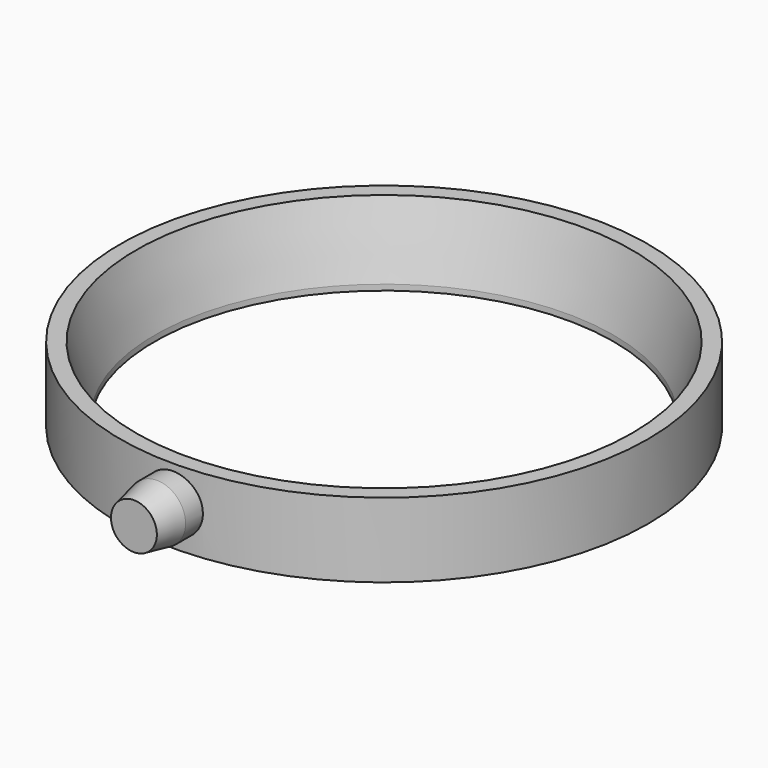
from build123d import *

# Parameters (mm, degrees)
F0_R     = 46
F0_R_2   = 40
F1_DEPTH = 13
F3_R     = 5
F4_DEPTH = 10
F5_SIZE2 = 3.2153903092
F5_SIZE  = 12
F6_SIZE2 = 5
F6_SIZE  = 1


with BuildPart() as f1:
    # F0 (on Top) → F1 (new body)
    with BuildSketch(Plane.XY):
        Circle(F0_R)
        Circle(F0_R_2, mode=Mode.SUBTRACT)
    extrude(amount=F1_DEPTH)

    # F3 (on offset) → F4 (join)
    with BuildSketch(Plane.XZ.offset(44.5)):
        with Locations((0, 6.839911745)):
            Circle(F3_R)
    extrude(amount=F4_DEPTH)

    # F5
    f5_edges = [f1.edges().sort_by_distance(p)[0] for p in [
        (-40, 0, 13),
    ]]
    f5_side = f1.faces().sort_by_distance((-40, 0, 6.5))[0]
    chamfer(f5_edges, length=F5_SIZE, length2=F5_SIZE2, reference=f5_side)

    # F6
    f6_edges = [f1.edges().sort_by_distance(p)[0] for p in [
        (-5, -54.5, 6.839912),
    ]]
    f6_side = f1.faces().sort_by_distance((0, -54.5, 6.839912))[0]
    chamfer(f6_edges, length=F6_SIZE, length2=F6_SIZE2, reference=f6_side)


solid = f1.part
